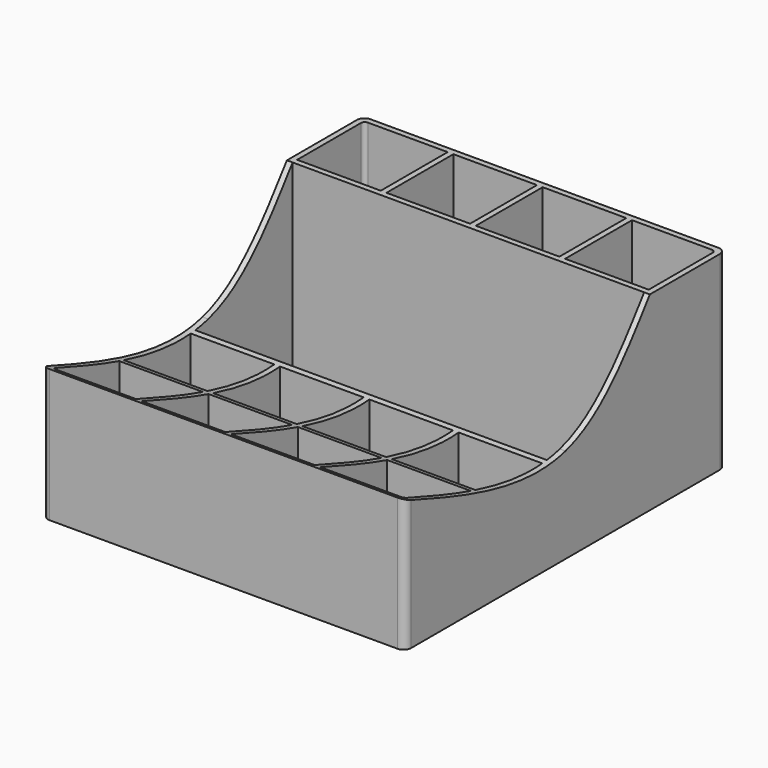
from build123d import *

# Parameters (mm, degrees)
F0_W     = 95.5
F0_H     = 105.5
F0_W_2   = 22
F0_H_2   = 22
F0_W_3   = 92.5
F0_H_3   = 32
F1_DEPTH = 50
F2_W     = 95.5
F2_H     = 105.5
F3_DEPTH = 1.5
F5_DEPTH = 100
F6_R     = 2
F7_R     = 1


with BuildPart() as f1:
    # F0 (on Top) → F1 (new body)
    with BuildSketch(Plane.XY):
        with Locations((46.25, 51.25)):
            Rectangle(F0_W, F0_H)
        with Locations((11, 11)):
            Rectangle(F0_W_2, F0_H_2, mode=Mode.SUBTRACT)
        with Locations((34.5, 11)):
            Rectangle(F0_W_2, F0_H_2, mode=Mode.SUBTRACT)
        with Locations((11, 34.5)):
            Rectangle(F0_W_2, F0_H_2, mode=Mode.SUBTRACT)
        with Locations((34.5, 34.5)):
            Rectangle(F0_W_2, F0_H_2, mode=Mode.SUBTRACT)
        with Locations((58, 11)):
            Rectangle(F0_W_2, F0_H_2, mode=Mode.SUBTRACT)
        with Locations((81.5, 11)):
            Rectangle(F0_W_2, F0_H_2, mode=Mode.SUBTRACT)
        with Locations((58, 34.5)):
            Rectangle(F0_W_2, F0_H_2, mode=Mode.SUBTRACT)
        with Locations((81.5, 34.5)):
            Rectangle(F0_W_2, F0_H_2, mode=Mode.SUBTRACT)
        with Locations((11, 91.5)):
            Rectangle(F0_W_2, F0_H_2, mode=Mode.SUBTRACT)
        with Locations((34.5, 91.5)):
            Rectangle(F0_W_2, F0_H_2, mode=Mode.SUBTRACT)
        with Locations((46.25, 63)):
            Rectangle(F0_W_3, F0_H_3, mode=Mode.SUBTRACT)
        with Locations((58, 91.5)):
            Rectangle(F0_W_2, F0_H_2, mode=Mode.SUBTRACT)
        with Locations((81.5, 91.5)):
            Rectangle(F0_W_2, F0_H_2, mode=Mode.SUBTRACT)
    extrude(amount=F1_DEPTH)

    # F2 (on Top) → F3 (join)
    with BuildSketch(Plane.XY):
        with Locations((46.25, 51.25)):
            Rectangle(F2_W, F2_H)
    extrude(amount=F3_DEPTH)

    # F4 (on face) → F5 (cut)
    with BuildSketch(Plane(origin=(-1.5, 0, 0), x_dir=(0, -1, 0), z_dir=(-1, 0, 0))):
        with BuildLine():
            Line((1.5, 50), (-79, 50))
            add(Edge.make_bspline(
                [(-79, 50), (-70.9814525391, 39.139632946), (-62.9629050781, 28.2792658921), (-51.25, 25)],
                knots=[0, 0, 0, 0, 0.4547652437, 0.4547652437, 0.4547652437, 0.4547652437], degree=3))
            add(Edge.make_bspline(
                [(-51.25, 25), (-37.2069678319, 21.0683676592), (-17.853483916, 28.0341838296), (1.5, 35)],
                knots=[0.4547652437, 0.4547652437, 0.4547652437, 0.4547652437, 1, 1, 1, 1], degree=3))
            Line((1.5, 35), (1.5, 50))
        make_face()
    extrude(amount=-F5_DEPTH, mode=Mode.SUBTRACT)

    # F6
    f6_edges = [f1.edges().sort_by_distance(p)[0] for p in [
        (94, -1.5, 17.5),
        (94, 104, 25),
        (-1.5, -1.5, 17.5),
        (-1.5, 104, 25),
    ]]
    fillet(f6_edges, radius=F6_R)

    # F7
    f7_edges = [f1.edges().sort_by_distance(p)[0] for p in [
        (0, 0, 17.980133),
        (92.5, 0, 17.980133),
        (92.5, 102.5, 25.75),
        (0, 102.5, 25.75),
    ]]
    fillet(f7_edges, radius=F7_R)


solid = f1.part
